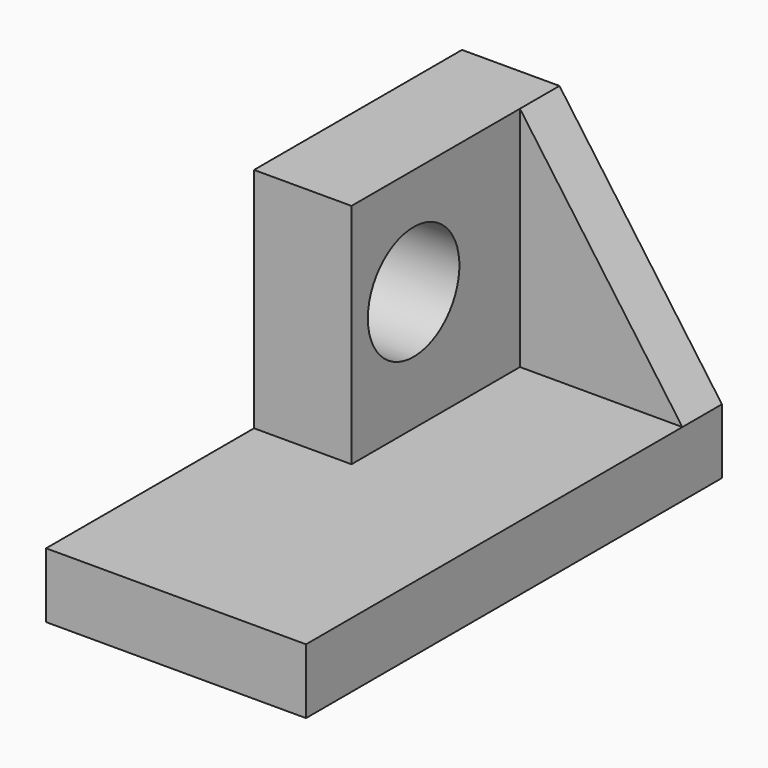
from build123d import *

# Parameters (mm, degrees)
F0_W     = 50.8
F0_H     = 101.6
F1_DEPTH = 12.7
F2_W     = 19.05
F2_H     = 50.8
F3_DEPTH = 44.45
F5_DEPTH = 9.652
F7_D     = 22.352


with BuildPart() as f1:
    # F0 (on Top) → F1 (new body)
    with BuildSketch(Plane.XY):
        with Locations((0.128248, -50.8)):
            Rectangle(F0_W, F0_H)
    extrude(amount=F1_DEPTH)

    # F2 (on face) → F3 (join)
    with BuildSketch(Plane.XY.offset(12.7)):
        with Locations((-15.746752, -25.4)):
            Rectangle(F2_W, F2_H)
    extrude(amount=F3_DEPTH)

    # F4 (on face) → F5 (join)
    with BuildSketch(Plane(origin=(0, 0, 0), x_dir=(-1, 0, 0), z_dir=(0, 1, 0))):
        Polygon((6.221752, 12.7), (6.221752, 57.15), (-25.528248, 12.7), align=None)
    extrude(amount=-F5_DEPTH)

    # F7 (through all)
    with Locations(Plane.YZ.offset(-6.221752)):
        with Locations((-35.627518, 36.184873)):
            Hole(F7_D / 2)


solid = f1.part
